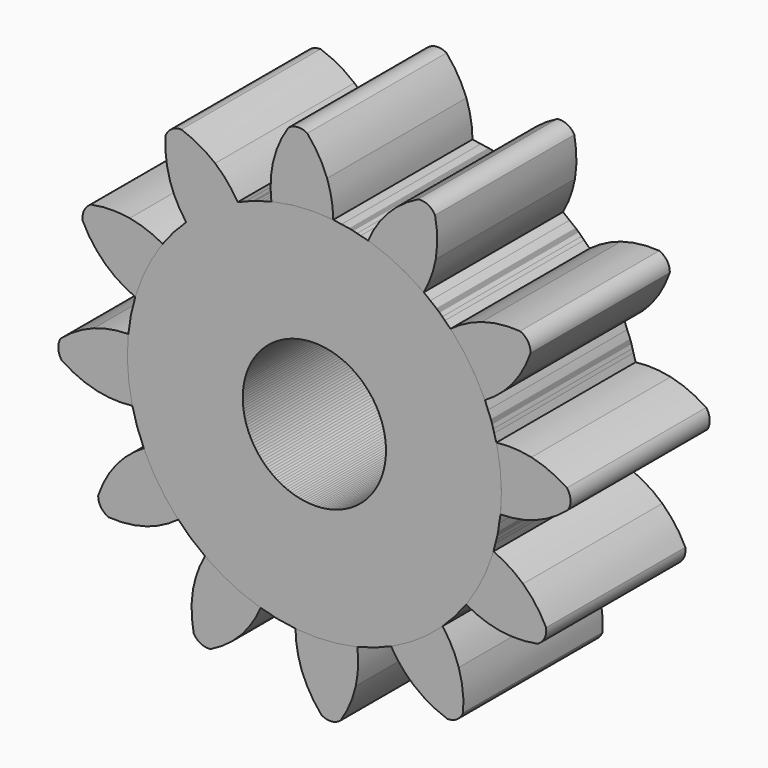
from build123d import *

# Parameters (mm, degrees)
F0_R     = 10.297735
F1_DEPTH = 25
F2_COUNT = 12


with BuildPart() as f1:
    # F0 (on Front) → F1 (new body)
    with BuildSketch(Plane.XZ):
        with BuildLine():
            ThreePointArc((-6.176612, 26.140695), (-16.667027, -21.064109), (26.8605, 0))
            ThreePointArc((26.8605, 0), (19.928933, 18.009), (2.711725, 26.723267))
            ThreePointArc((2.711725, 26.723267), (-1.756761, 26.80299), (-6.176612, 26.140695))
        make_face()
        Circle(F0_R, mode=Mode.SUBTRACT)
        with BuildLine():
            ThreePointArc((-6.176612, 26.140695), (-1.756761, 26.80299), (2.711725, 26.723267))
            ThreePointArc((2.711725, 26.723267), (2.480674, 29.240545), (1.830978, 31.683487))
            ThreePointArc((1.830978, 31.683487), (0.624781, 34.197535), (-1.025463, 36.445209))
            ThreePointArc((-1.025463, 36.445209), (-2.41106, 36.785669), (-3.740365, 36.267265))
            ThreePointArc((-3.740365, 36.267265), (-5.08311, 33.82342), (-5.950839, 31.17344))
            ThreePointArc((-5.950839, 31.17344), (-6.276108, 28.666595), (-6.176612, 26.140695))
        make_face()
    extrude(amount=F1_DEPTH)


with BuildPart() as f2_1:
    # F2: instance of F1
    add(f1.part.rotate(Axis((0, 0, 0), (0, 1, 0)), 1 * 360 / F2_COUNT))


with BuildPart() as f2_2:
    # F2: instance of F1
    add(f1.part.rotate(Axis((0, 0, 0), (0, 1, 0)), 2 * 360 / F2_COUNT))


with BuildPart() as f2_3:
    # F2: instance of F1
    add(f1.part.rotate(Axis((0, 0, 0), (0, 1, 0)), 3 * 360 / F2_COUNT))


with BuildPart() as f2_4:
    # F2: instance of F1
    add(f1.part.rotate(Axis((0, 0, 0), (0, 1, 0)), 4 * 360 / F2_COUNT))


with BuildPart() as f2_5:
    # F2: instance of F1
    add(f1.part.rotate(Axis((0, 0, 0), (0, 1, 0)), 5 * 360 / F2_COUNT))


with BuildPart() as f2_6:
    # F2: instance of F1
    add(f1.part.rotate(Axis((0, 0, 0), (0, 1, 0)), 6 * 360 / F2_COUNT))


with BuildPart() as f2_7:
    # F2: instance of F1
    add(f1.part.rotate(Axis((0, 0, 0), (0, 1, 0)), 7 * 360 / F2_COUNT))


with BuildPart() as f2_8:
    # F2: instance of F1
    add(f1.part.rotate(Axis((0, 0, 0), (0, 1, 0)), 8 * 360 / F2_COUNT))


with BuildPart() as f2_9:
    # F2: instance of F1
    add(f1.part.rotate(Axis((0, 0, 0), (0, 1, 0)), 9 * 360 / F2_COUNT))


with BuildPart() as f2_10:
    # F2: instance of F1
    add(f1.part.rotate(Axis((0, 0, 0), (0, 1, 0)), 10 * 360 / F2_COUNT))


with BuildPart() as f2_11:
    # F2: instance of F1
    add(f1.part.rotate(Axis((0, 0, 0), (0, 1, 0)), 11 * 360 / F2_COUNT))


solid = Compound([f1.part, f2_1.part, f2_2.part, f2_3.part, f2_4.part, f2_5.part, f2_6.part, f2_7.part, f2_8.part, f2_9.part, f2_10.part, f2_11.part])
